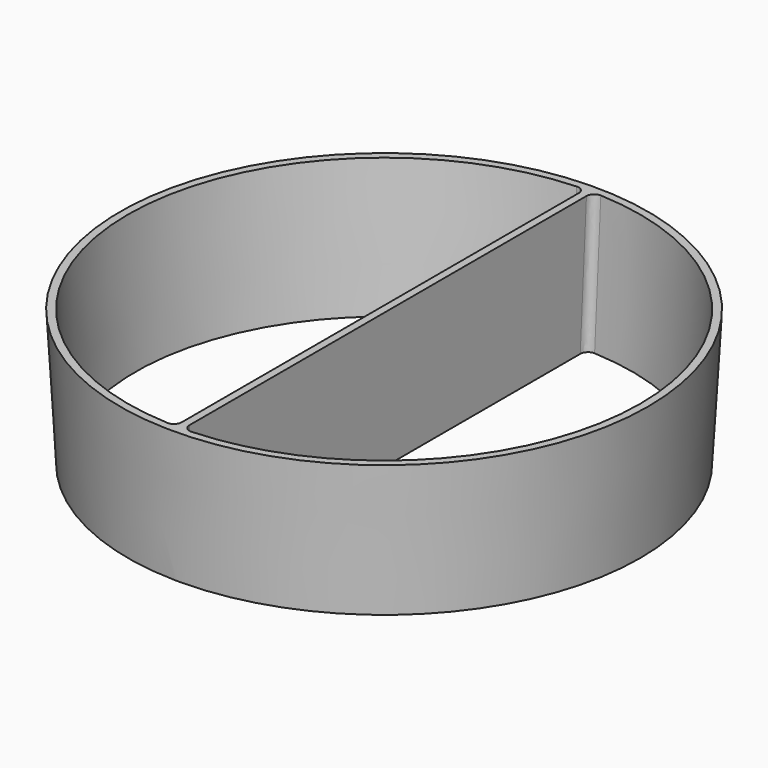
from build123d import *

# Parameters (mm, degrees)
F3_DEPTH = 22.225
F4_R     = 1.27


with BuildPart() as f1:
    # F0 (on Front) → F1 (revolve)
    with BuildSketch(Plane.XZ):
        Polygon((41.9079282205, 22.225), (40.6379282205, 0), (41.91, 0), (43.18, 22.225), align=None)
    revolve(axis=Axis((0, 0, 4.1103595868), (0, 0, 1)))

    # F2 (on Top) → F3 (join, through all)
    with BuildSketch(Plane.XY):
        with BuildLine():
            ThreePointArc((0.635, 41.9051891178), (0, 41.91), (-0.635, 41.9051891178))
            Line((-0.635, 41.9051891178), (-0.635, -41.9051891178))
            ThreePointArc((-0.635, -41.9051891178), (0, -41.91), (0.635, -41.9051891178))
            Line((0.635, -41.9051891178), (0.635, 41.9051891178))
        make_face()
    extrude(amount=F3_DEPTH)

    # F4
    f4_edges = [f1.edges().sort_by_distance(p)[0] for p in [
        (0.635, -41.268043, 11.1125),
        (0.635, 41.268043, 11.1125),
        (-0.635, 41.268043, 11.1125),
        (-0.635, -41.268043, 11.1125),
    ]]
    fillet(f4_edges, radius=F4_R)


solid = f1.part
